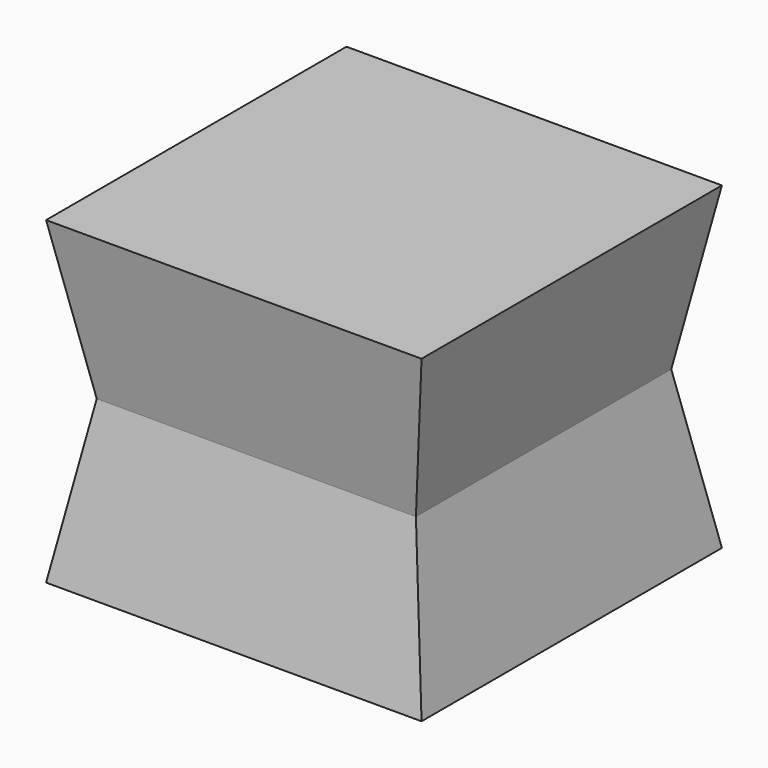
from build123d import *

# Parameters (mm, degrees)
F0_W     = 25.4
F0_H     = 25.4
F1_DEPTH = 12.7
F1_TAPER = -10


with BuildPart() as f1:
    # F0 (on Top) → F1 (new body, symmetric)
    with BuildSketch(Plane.XY):
        Rectangle(F0_W, F0_H)
    extrude(amount=F1_DEPTH, both=True, taper=F1_TAPER)


solid = f1.part
